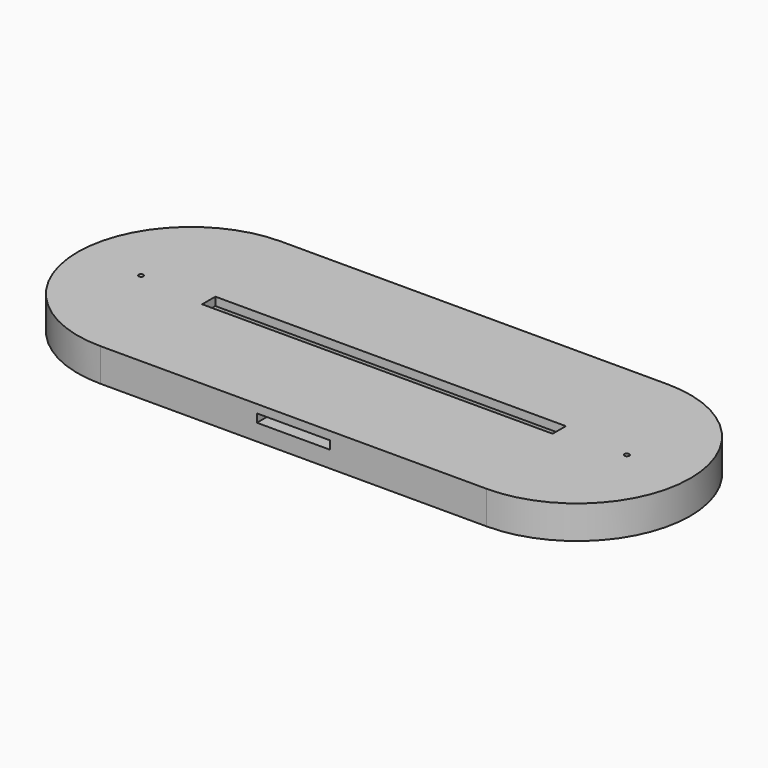
from build123d import *

# Parameters (mm, degrees)
PAD_DEPTH          = 9
POCKET_DEPTH       = 6
SKETCH002_W        = 26.5
SKETCH002_H        = 35
POCKET001_DEPTH    = 6
SKETCH003_W        = 127
SKETCH003_H        = 6
PAD001_DEPTH       = 3
SKETCH004_R        = 0.85
POCKET002_DEPTH    = 485.929265
POLARPATTERN_COUNT = 2
SKETCH005_W        = 26.5
SKETCH005_H        = 7.5
PAD002_DEPTH       = 3


with BuildPart() as part:
    # Sketch → Pad (new body)
    with BuildSketch(Plane.XY):
        with BuildLine():
            ThreePointArc((-70, 41), (-111, 0), (-70, -41))
            Line((-70, -41), (70, -41))
            ThreePointArc((70, -41), (111, 0), (70, 41))
            Line((-70, 41), (70, 41))
        make_face()
    extrude(amount=PAD_DEPTH)

    # Sketch001 (on Face6 of Pad) → Pocket (cut)
    with BuildSketch(Plane.XY.offset(9)):
        with BuildLine():
            ThreePointArc((-62.5, 6), (-68.5, 0), (-62.5, -6))
            Line((-62.5, -6), (62.5, -6))
            ThreePointArc((62.5, -6), (68.5, 0), (62.5, 6))
            Line((-62.5, 6), (62.5, 6))
        make_face()
    extrude(amount=-POCKET_DEPTH, mode=Mode.SUBTRACT)

    # Sketch002 (on Face5 of Pocket) → Pocket001 (cut)
    with BuildSketch(Plane.XY.offset(9)):
        with Locations((0, -23.5)):
            Rectangle(SKETCH002_W, SKETCH002_H)
    extrude(amount=-POCKET001_DEPTH, mode=Mode.SUBTRACT)

    # Sketch003 (on Face5 of Pocket001) → Pad001 (join)
    with BuildSketch(Plane.XY.offset(9)):
        with BuildLine():
            ThreePointArc((-70, 41), (-111, 0), (-70, -41))
            Line((-70, -41), (70, -41))
            ThreePointArc((70, -41), (111, 0), (70, 41))
            Line((-70, 41), (70, 41))
        make_face()
        Rectangle(SKETCH003_W, SKETCH003_H, mode=Mode.SUBTRACT)
    extrude(amount=PAD001_DEPTH)

    # Sketch004 (on Face12 of Pad001) → Pocket002 (cut, through all)
    with BuildSketch(Plane.XY.offset(12)):
        with Locations((-88, 0)):
            Circle(SKETCH004_R)
    pocket002 = extrude(amount=-POCKET002_DEPTH, mode=Mode.SUBTRACT)

    # PolarPattern: Pocket002 ×2 about axis
    polarpattern_axis = Axis((0, 0, 12), (0, 0, 1))
    for i in range(1, POLARPATTERN_COUNT):
        add(pocket002.rotate(polarpattern_axis, i * 360 / POLARPATTERN_COUNT), mode=Mode.SUBTRACT)

    # Sketch005 (on Face10 of PolarPattern) → Pad002 (join)
    with BuildSketch(Plane.XY.offset(3)):
        with Locations((0, -37.25)):
            Rectangle(SKETCH005_W, SKETCH005_H)
    extrude(amount=PAD002_DEPTH)


solid = part.part
